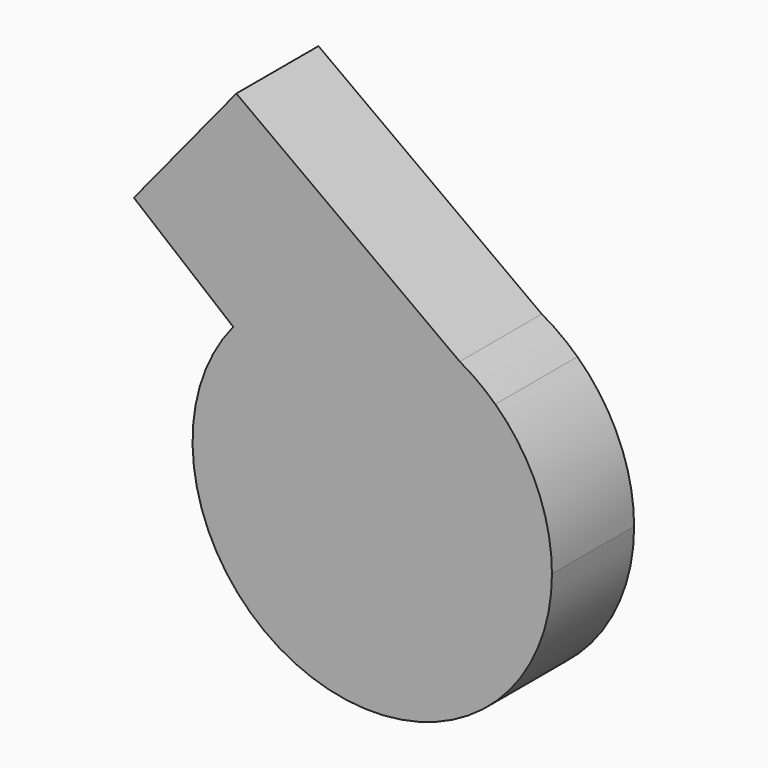
from build123d import *

# Parameters (mm, degrees)
F1_DEPTH = 25.4


with BuildPart() as f1:
    # F0 (on Front) → F1 (new body)
    with BuildSketch(Plane.XZ):
        with BuildLine():
            Line((30.4357201419, 32.3955157304), (0, 0))
            Line((0, 0), (-34.3912951606, 28.1609892791))
            ThreePointArc((-34.3912951606, 28.1609892791), (-14.951746221, -41.8598588739), (44.45, 0))
            ThreePointArc((44.45, 0), (40.7962636789, 17.6484381701), (30.4357201419, 32.3955157304))
        make_face()
        with BuildLine():
            Line((-34.3912951606, 28.1609892791), (0, 0))
            Line((0, 0), (30.4357201419, 32.3955157304))
            Line((30.4357201419, 32.3955157304), (21.6344162972, 38.8298149812))
            ThreePointArc((21.6344162972, 38.8298149812), (-8.3150736647, 43.6653415188), (-34.3912951606, 28.1609892791))
        make_face()
        with BuildLine():
            Line((-58.9565059896, 48.2759816213), (-34.3912951606, 28.1609892791))
            ThreePointArc((-34.3912951606, 28.1609892791), (-8.3150736647, 43.6653415188), (21.6344162972, 38.8298149812))
            Line((21.6344162972, 38.8298149812), (-33.6167658697, 79.2218576031))
            Line((-33.6167658697, 79.2218576031), (-58.9565059896, 48.2759816213))
        make_face()
        with BuildLine():
            Line((21.6344162972, 38.8298149812), (30.4357201419, 32.3955157304))
            ThreePointArc((30.4357201419, 32.3955157304), (26.2330865304, 35.8835292452), (21.6344162972, 38.8298149812))
        make_face()
    extrude(amount=F1_DEPTH)


solid = f1.part
